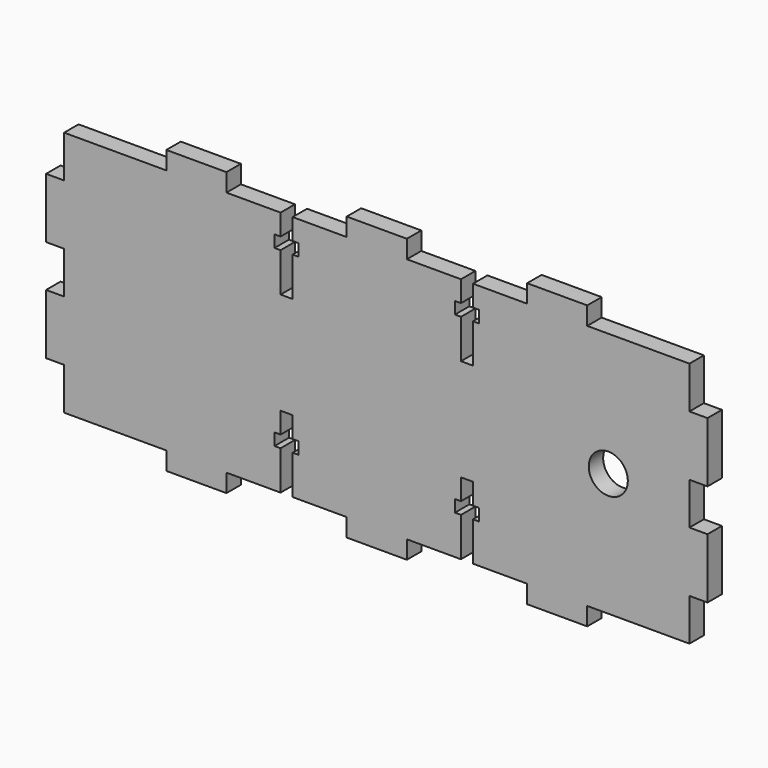
from build123d import *

# Parameters (mm, degrees)
F0_R     = 3.25
F1_DEPTH = 1.5


with BuildPart() as f1:
    # F0 (on Front) → F1 (new body, symmetric)
    with BuildSketch(Plane.XZ):
        Polygon((-17, 1.384615), (-8, 1.384615), (-8, -1.615385), (2, -1.615385), (2, 1.384615), (11, 1.384615), (11, 7.884615), (10, 7.884615), (10, 9.884615), (11, 9.884615), (11, 13.384615), (13, 13.384615), (13, 9.884615), (14, 9.884615), (14, 7.884615), (13, 7.884615), (13, 1.384615), (22, 1.384615), (22, -1.615385), (32, -1.615385), (32, 1.384615), (49, 1.384615), (49, 8.384615), (52, 8.384615), (52, 18.384615), (49, 18.384615), (49, 25.384615), (52, 25.384615), (52, 35.384615), (49, 35.384615), (49, 42.384615), (32, 42.384615), (32, 45.384615), (22, 45.384615), (22, 42.384615), (13, 42.384615), (13, 38.884615), (14, 38.884615), (14, 36.884615), (13, 36.884615), (13, 30.384615), (11, 30.384615), (11, 35.884615), (11, 36.884615), (10, 36.884615), (10, 38.884615), (11, 38.884615), (11, 42.384615), (2, 42.384615), (2, 45.384615), (-8, 45.384615), (-8, 42.384615), (-17, 42.384615), (-17, 38.884615), (-16, 38.884615), (-16, 36.884615), (-17, 36.884615), (-17, 35.884615), (-17, 30.384615), (-19, 30.384615), (-19, 36.884615), (-20, 36.884615), (-20, 38.884615), (-19, 38.884615), (-19, 42.384615), (-28, 42.384615), (-28, 45.384615), (-38, 45.384615), (-38, 42.384615), (-55, 42.384615), (-55, 35.384615), (-58, 35.384615), (-58, 25.384615), (-55, 25.384615), (-55, 18.384615), (-58, 18.384615), (-58, 8.384615), (-55, 8.384615), (-55, 1.384615), (-38, 1.384615), (-38, -1.615385), (-28, -1.615385), (-28, 1.384615), (-19, 1.384615), (-19, 7.884615), (-20, 7.884615), (-20, 9.884615), (-19, 9.884615), (-19, 13.384615), (-17, 13.384615), (-17, 9.884615), (-16, 9.884615), (-16, 7.884615), (-17, 7.884615), align=None)
        with Locations((35.5, 21.884615)):
            Circle(F0_R, mode=Mode.SUBTRACT)
    extrude(amount=F1_DEPTH, both=True)


solid = f1.part
